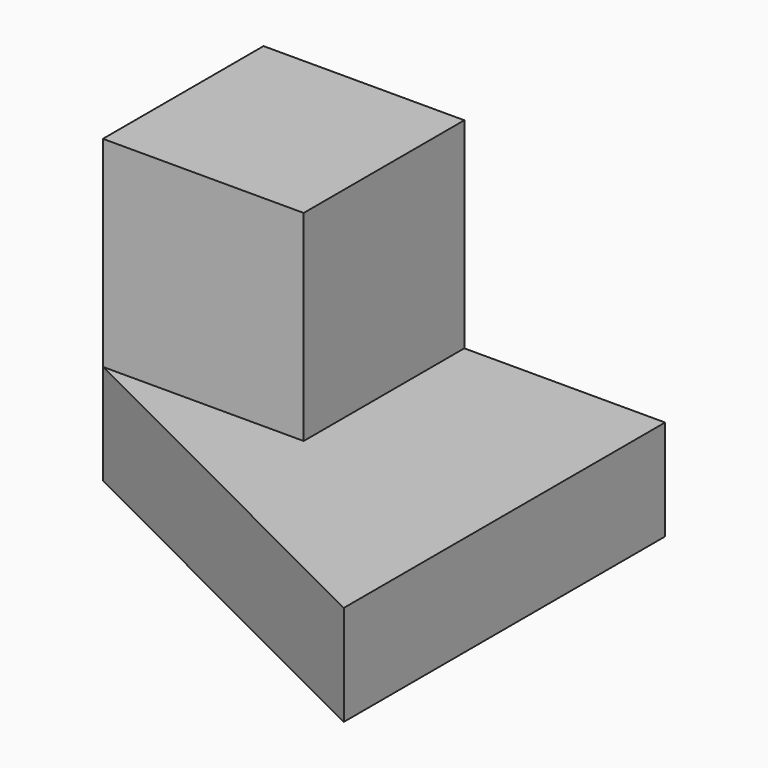
from build123d import *

# Parameters (mm, degrees)
F1_DEPTH = 0.00381
F3_DEPTH = 457.2
F6_W     = 20
F6_H     = 20
F7_DEPTH = 10
F8_W     = 20
F8_H     = 20
F9_DEPTH = 20


with BuildPart() as f1:
    # F0 (on Front) → F1 (new body)
    with BuildSketch(Plane.XZ):
        with BuildLine():
            add(Edge.make_bspline(
                [(-22.9145586491, 34.3718379736), (-3.9492113039, 69.8016077393), (-62.1253221057, 78.1520333198), (-120.3014329076, 86.5024589002), (-81.0906694509, 42.722263554), (-41.8799059942, -1.0579317921), (-22.9145586491, 34.3718379736)],
                knots=[0, 0, 0, 2.0943951024, 2.0943951024, 4.1887902048, 4.1887902048, 6.2831853072, 6.2831853072, 6.2831853072], degree=2, weights=[1, 0.5, 1, 0.5, 1, 0.5, 1]))
        make_face()
    extrude(amount=F1_DEPTH)


with BuildPart() as f3:
    # F2 (on Right) → F3 (new body)
    with BuildSketch(Plane.YZ):
        Polygon((-70.1284529331, 18.8658560246), (-40.1422344148, 27.7524124831), (-32.8451088009, 58.1645177126), (-55.5342017052, 79.6900664836), (-85.5204202235, 70.8035100251), (-92.8175458374, 40.3914047957), align=None)
    extrude(amount=F3_DEPTH)


with BuildPart() as f7:
    # F6 (on Top) → F7 (new body)
    with BuildSketch(Plane.XY):
        Polygon((11.9958230853, 32.3269702494), (-8.0041769147, 32.3269702494), (-8.0041769147, 12.3269702494), (-28.0041769147, 12.3269702494), (11.9958230853, -7.6730297506), align=None)
        with Locations((-18.0041769147, 22.3269702494)):
            Rectangle(F6_W, F6_H)
    extrude(amount=F7_DEPTH)

    # F8 (on face) → F9 (join)
    with BuildSketch(Plane.XY.offset(10)):
        with Locations((-18.0041769147, 22.3269702494)):
            Rectangle(F8_W, F8_H)
    extrude(amount=F9_DEPTH)


solid = f7.part
